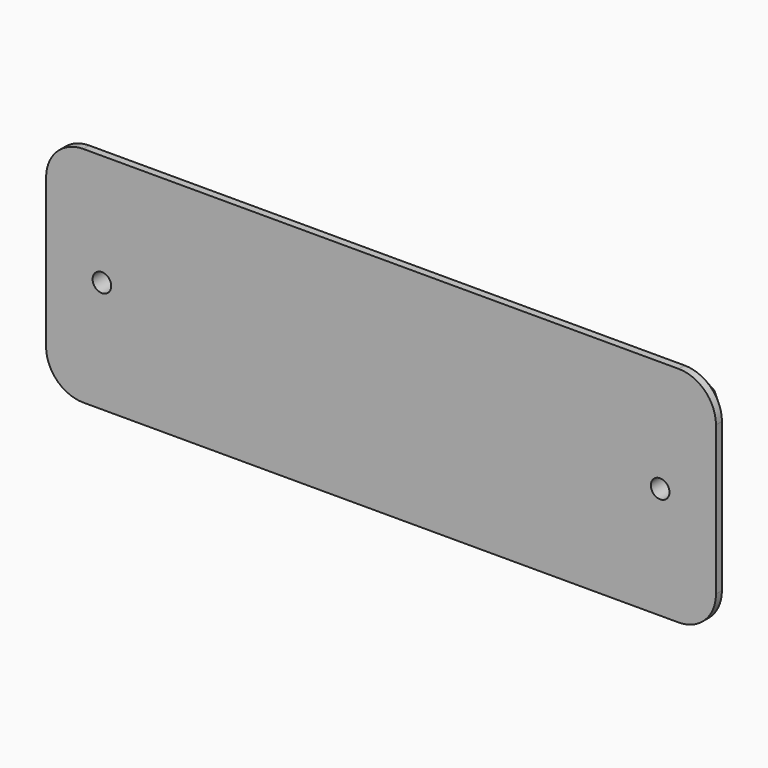
from build123d import *

# Parameters (mm, degrees)
F1_DEPTH = 5
F2_D     = 2.5
F2_DEPTH = 15
F2_TIP   = 0.7510757738
F3_SIZE  = 4


with BuildPart() as f1:
    # F0 (on Front) → F1 (new body)
    with BuildSketch(Plane.XZ):
        with BuildLine():
            Line((39.9999981374, 27.0838558645), (-40.0000018626, 27.0838558645))
            ThreePointArc((-40.0000018626, 27.0838558645), (-43.5355357686, 25.6193897704), (-45.0000018626, 22.0838558645))
            Line((-45.0000018626, 22.0838558645), (-45.0000018626, 12.0838558645))
            Line((-45.0000018626, 12.0838558645), (-37.5000018626, 12.0838558645))
            Line((-37.5000018626, 12.0838558645), (37.4999981374, 12.0838558645))
            Line((37.4999981374, 12.0838558645), (44.9999981374, 12.0838558645))
            Line((44.9999981374, 12.0838558645), (44.9999981374, 22.0838558645))
            ThreePointArc((44.9999981374, 22.0838558645), (43.5355320433, 25.6193897704), (39.9999981374, 27.0838558645))
        make_face()
        with BuildLine():
            Line((-37.5000018626, 12.0838558645), (-45.0000018626, 12.0838558645))
            Line((-45.0000018626, 12.0838558645), (-45.0000018626, 2.0838558645))
            ThreePointArc((-45.0000018626, 2.0838558645), (-43.5355357686, -1.4516780414), (-40.0000018626, -2.9161441355))
            Line((-40.0000018626, -2.9161441355), (39.9999981374, -2.9161441355))
            ThreePointArc((39.9999981374, -2.9161441355), (43.5355320433, -1.4516780414), (44.9999981374, 2.0838558645))
            Line((44.9999981374, 2.0838558645), (44.9999981374, 12.0838558645))
            Line((44.9999981374, 12.0838558645), (37.4999981374, 12.0838558645))
            Line((37.4999981374, 12.0838558645), (-37.5000018626, 12.0838558645))
        make_face()
    extrude(amount=F1_DEPTH)

    # F2
    with Locations(Plane(origin=(0, 0, 0), x_dir=(1, 0, 0), z_dir=(0, 1, 0))):
        with Locations((-37.5000018626, -12.0838558645), (37.4999981374, -12.0838558645)):
            Hole(F2_D / 2, depth=F2_DEPTH)
            with Locations((0, 0, -(F2_DEPTH + F2_TIP / 2))):  # 118° drill point
                Cone(0, F2_D / 2, F2_TIP, mode=Mode.SUBTRACT)

    # F3
    f3_edges = [f1.edges().sort_by_distance(p)[0] for p in [
        (-2e-06, 0, -2.916144),
    ]]
    chamfer(f3_edges, length=F3_SIZE)


solid = f1.part
